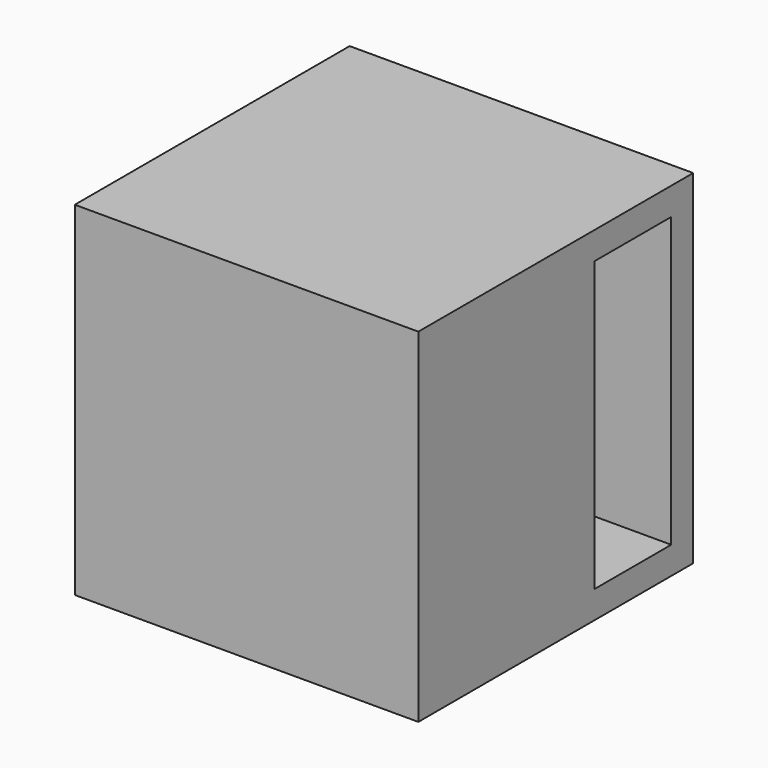
from build123d import *

# Parameters (mm, degrees)
F0_W     = 63.5
F0_H     = 63.5
F1_DEPTH = 63.5
F2_W     = 17.78
F2_H     = 53.34
F3_DEPTH = 25.4


with BuildPart() as f1:
    # F0 (on Top) → F1 (new body)
    with BuildSketch(Plane.XY):
        Rectangle(F0_W, F0_H)
    extrude(amount=F1_DEPTH)

    # F2 (on face) → F3 (cut)
    with BuildSketch(Plane.YZ.offset(31.75)):
        with Locations((17.78, 31.75)):
            Rectangle(F2_W, F2_H)
    extrude(amount=-F3_DEPTH, mode=Mode.SUBTRACT)


solid = f1.part
